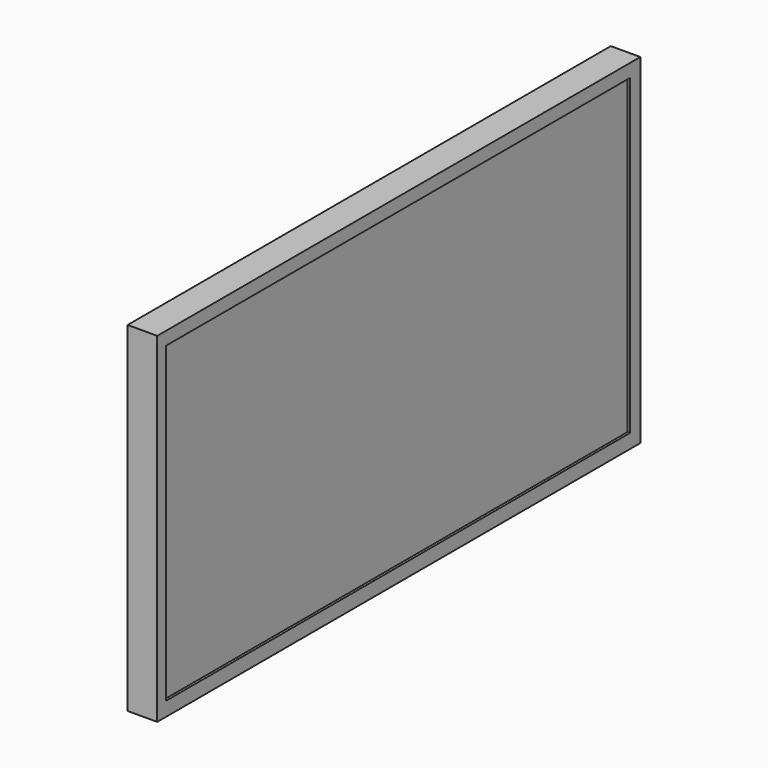
from build123d import *

# Parameters (mm, degrees)
SKETCH_W     = 1226
SKETCH_H     = 690
PAD_DEPTH    = 60
SKETCH001_W  = 1178.222099
SKETCH001_H  = 634.606854
POCKET_DEPTH = 5


with BuildPart() as part:
    # Sketch → Pad (new body)
    with BuildSketch(Plane.YZ):
        with Locations((613, 345)):
            Rectangle(SKETCH_W, SKETCH_H)
    extrude(amount=PAD_DEPTH)

    # Sketch001 (on Face6 of Pad) → Pocket (cut)
    with BuildSketch(Plane.YZ.offset(60)):
        with Locations((610.844516, 346.005472)):
            Rectangle(SKETCH001_W, SKETCH001_H)
    extrude(amount=-POCKET_DEPTH, mode=Mode.SUBTRACT)


solid = part.part
